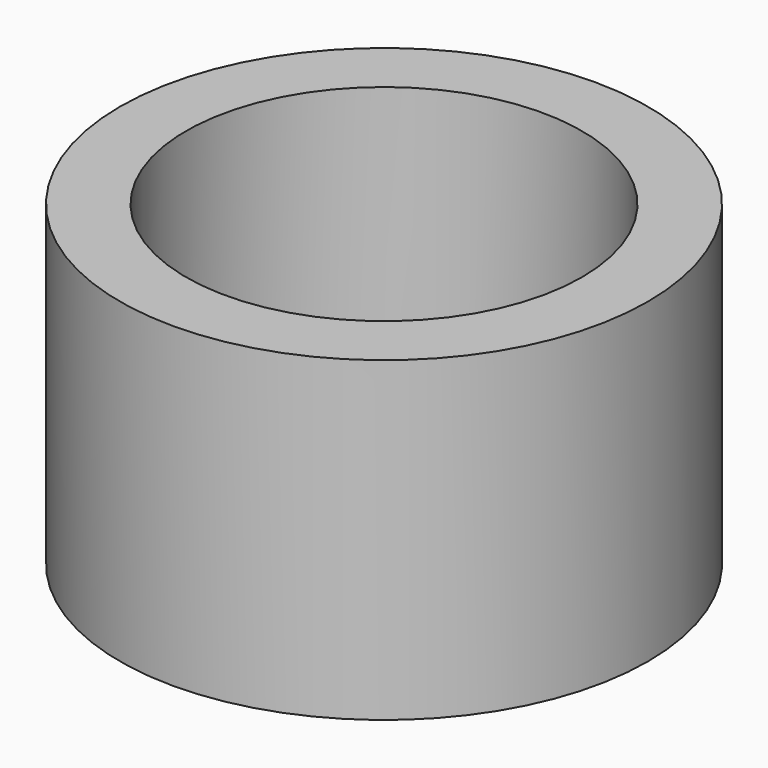
from build123d import *

# Parameters (mm, degrees)
SKETCH090_R             = 5
SKETCH090_R_2           = 2.25
PAD032_DEPTH            = 2
SKETCH091_R             = 5
SKETCH091_R_2           = 3.75
PAD033_DEPTH            = 4
BODY011_PLACEMENT_ANGLE = 90


with BuildPart() as part:
    # Sketch090 → Pad032 (new body)
    with BuildSketch(Plane.XZ):
        Circle(SKETCH090_R)
        Circle(SKETCH090_R_2, mode=Mode.SUBTRACT)
    extrude(amount=PAD032_DEPTH)

    # Sketch091 (on Face4 of Pad032) → Pad033 (join)
    with BuildSketch(Plane.XZ.offset(2)):
        Circle(SKETCH091_R)
        Circle(SKETCH091_R_2, mode=Mode.SUBTRACT)
    extrude(amount=PAD033_DEPTH)


with BuildPart() as part_1:
    # Body011 placement: moved
    add(part.part.moved(Location((62, 89, 34))).rotate(Axis((62, 89, 34), (-1, 0, 0)), BODY011_PLACEMENT_ANGLE))


solid = part_1.part
